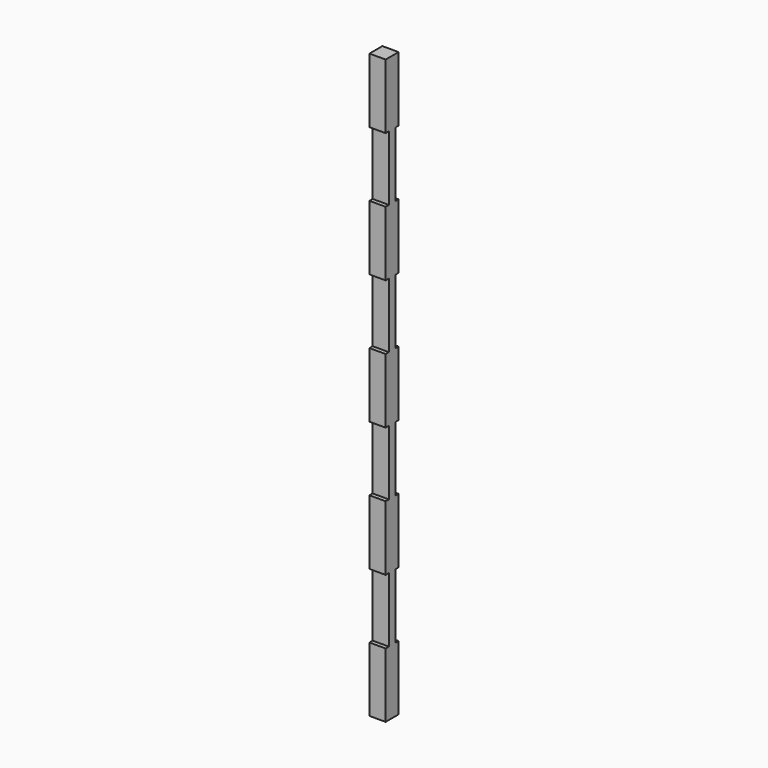
from build123d import *

# Parameters (mm, degrees)
F1_DEPTH = 25.4


with BuildPart() as f1:
    # F0 (on Right) → F1 (new body)
    with BuildSketch(Plane.YZ):
        Polygon((-12.7, 457.166714), (-12.7, 355.566714), (-6.35, 355.566714), (-6.35, 253.966714), (-12.7, 253.966714), (-12.7, 152.366714), (-6.35, 152.366714), (-6.35, 50.766714), (-12.7, 50.766714), (-12.7, -50.833286), (-6.35, -50.833286), (-6.35, -152.433286), (-12.7, -152.433286), (-12.7, -254.033286), (-6.35, -254.033286), (-6.35, -355.582592), (-12.7, -355.582592), (-12.7, -456.920322), (0, -456.920322), (0, 457.166714), align=None)
        Polygon((12.7, 457.166714), (0, 457.166714), (0, -456.920322), (12.7, -456.920322), (12.7, -355.582592), (6.35, -355.582592), (6.35, -254.033286), (12.7, -254.033286), (12.7, -152.433286), (6.35, -152.433286), (6.35, -50.833286), (12.7, -50.833286), (12.7, 50.766714), (6.35, 50.766714), (6.35, 152.366714), (12.7, 152.366714), (12.7, 253.966714), (6.35, 253.966714), (6.35, 355.566714), (12.7, 355.566714), align=None)
    extrude(amount=F1_DEPTH)


solid = f1.part
